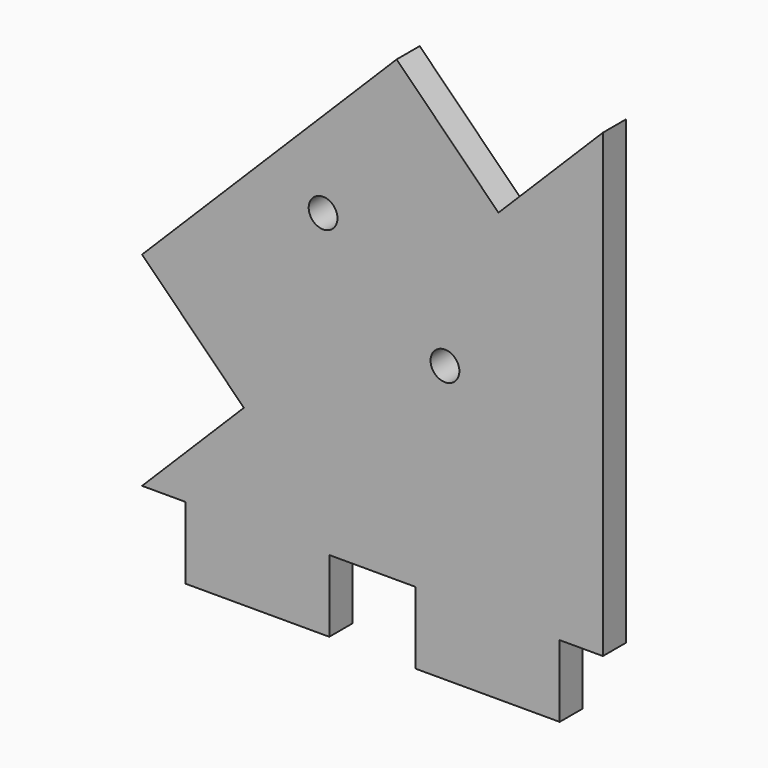
from build123d import *

# Parameters (mm, degrees)
F0_R     = 2
F1_DEPTH = 4


with BuildPart() as f1:
    # F0 (on Front) → F1 (new body)
    with BuildSketch(Plane.XZ):
        Polygon((32, -32), (32, 32), (17.497475, 17.497475), (3.355339, 31.63961), (-32, -3.715729), (-17.857864, -17.857864), (-32, -32), (-26, -32), (-26, -42), (-6, -42), (-6, -32), (6, -32), (6, -42), (26, -42), (26, -32), align=None)
        with Locations((-6.859445, 9.531957)):
            Circle(F0_R, mode=Mode.SUBTRACT)
        with Locations((10.066459, -3.652432)):
            Circle(F0_R, mode=Mode.SUBTRACT)
    extrude(amount=F1_DEPTH)


solid = f1.part
